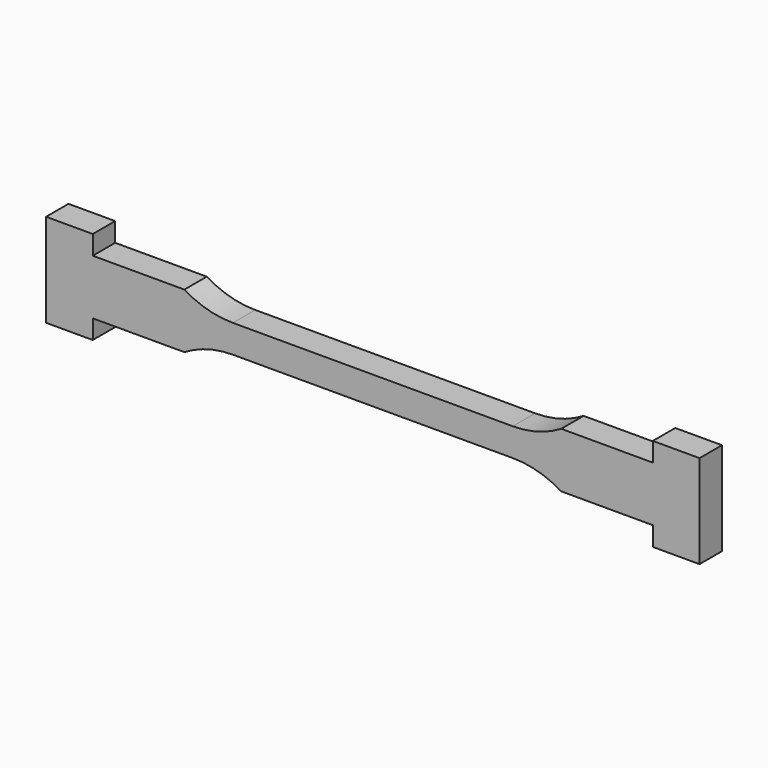
from build123d import *

# Parameters (mm, degrees)
F1_DEPTH = 3


with BuildPart() as f1:
    # F0 (on Front) → F1 (new body)
    with BuildSketch(Plane.XZ):
        with BuildLine():
            Line((35, -1.5), (35, 1.5))
            Line((35, 1.5), (35, 5))
            Line((35, 5), (30, 5))
            Line((30, 5), (30, 2.95))
            Line((30, 2.95), (20.18628, 2.95))
            ThreePointArc((20.18628, 2.95), (17.692582, 1.86932), (15, 1.5))
            Line((15, 1.5), (-15, 1.5))
            ThreePointArc((-15, 1.5), (-17.692582, 1.86932), (-20.18628, 2.95))
            Line((-20.18628, 2.95), (-30, 2.95))
            Line((-30, 2.95), (-30, 5))
            Line((-30, 5), (-35, 5))
            Line((-35, 5), (-35, 1.5))
            Line((-35, 1.5), (-35, -1.5))
            Line((-35, -1.5), (-35, -5))
            Line((-35, -5), (-30, -5))
            Line((-30, -5), (-30, -2.95))
            Line((-30, -2.95), (-20.18628, -2.95))
            ThreePointArc((-20.18628, -2.95), (-17.692582, -1.86932), (-15, -1.5))
            Line((-15, -1.5), (15, -1.5))
            ThreePointArc((15, -1.5), (17.692582, -1.86932), (20.18628, -2.95))
            Line((20.18628, -2.95), (30, -2.95))
            Line((30, -2.95), (30, -5))
            Line((30, -5), (35, -5))
            Line((35, -5), (35, -1.5))
        make_face()
    extrude(amount=F1_DEPTH)


solid = f1.part
